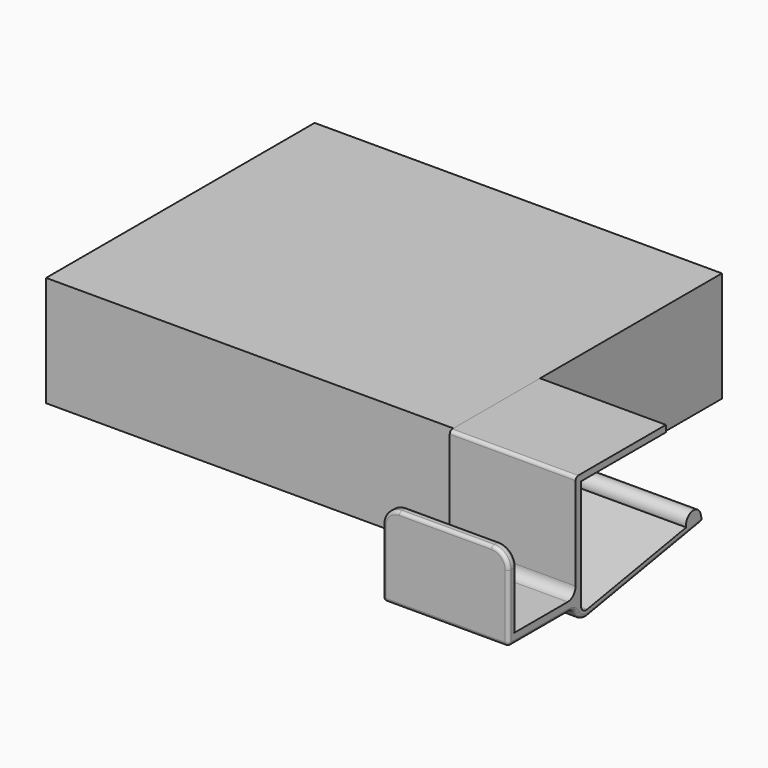
from build123d import *

# Parameters (mm, degrees)
F0_W     = 101.6
F0_H     = 33.4
F1_DEPTH = 123.28711
F3_DEPTH = 38.1
F4_R     = 1
F5_R     = 3
F6_R     = 5.08
F7_R     = 1


with BuildPart() as f1:
    # F0 (on Right) → F1 (new body)
    with BuildSketch(Plane.YZ):
        with Locations((-2.3622444451, -8.5308100462)):
            Rectangle(F0_W, F0_H)
    extrude(amount=F1_DEPTH)


with BuildPart() as f3:
    # F2 (on face) → F3 (new body)
    with BuildSketch(Plane.YZ.offset(123.28711)):
        with BuildLine():
            Line((-20.3735399991, 6.1691899538), (-20.3735399991, 8.1691899538))
            Line((-20.3735399991, 8.1691899538), (-53.5426569879, 8.1691899538))
            ThreePointArc((-53.5426569879, 8.1691899538), (-54.2497637691, 7.876296735), (-54.5426569879, 7.1691899538))
            Line((-54.5426569879, 7.1691899538), (-54.5426569879, -23.9238089242))
            Line((-54.5426569879, -23.9238089242), (-76.9426569879, -23.9238089242))
            Line((-76.9426569879, -23.9238089242), (-76.9426569879, -1.5238089242))
            Line((-76.9426569879, -1.5238089242), (-79.9426569879, -1.5238089242))
            Line((-79.9426569879, -1.5238089242), (-79.9426569879, -23.9238089242))
            Line((-79.9426569879, -23.9238089242), (-79.9426569879, -26.9238089242))
            Line((-79.9426569879, -26.9238089242), (-54.5426569879, -26.9238089242))
            ThreePointArc((-54.5426569879, -26.9238089242), (-53.1138074267, -29.9879866967), (-49.8480642772, -30.8630399363))
            Line((-49.8480642772, -30.8630399363), (-6.690798263, -23.2532495244))
            Line((-6.690798263, -23.2532495244), (-7.1944188543, -21.0330628785))
            ThreePointArc((-7.1944188543, -21.0330628785), (-10.5722276228, -18.9043396003), (-12.700950901, -22.2821483688))
            Line((-12.700950901, -22.2821483688), (-50.1953606326, -28.8934244303))
            ThreePointArc((-50.1953606326, -28.8934244303), (-51.8282322073, -28.4558978105), (-52.5426569879, -26.9238089242))
            Line((-52.5426569879, -26.9238089242), (-52.5426569879, 6.1691899538))
            Line((-52.5426569879, 6.1691899538), (-20.3735399991, 6.1691899538))
        make_face()
    extrude(amount=F3_DEPTH)

    # F4
    f4_edges = [f3.edges().sort_by_distance(p)[0] for p in [
        (142.33711, -79.942657, -26.923809),
    ]]
    fillet(f4_edges, radius=F4_R)

    # F5
    f5_edges = [f3.edges().sort_by_distance(p)[0] for p in [
        (142.33711, -54.542657, -23.923809),
        (142.33711, -54.542657, -26.923809),
    ]]
    fillet(f5_edges, radius=F5_R)

    # F6
    f6_edges = [f3.edges().sort_by_distance(p)[0] for p in [
        (123.28711, -78.442657, -1.523809),
        (161.38711, -78.442657, -1.523809),
    ]]
    fillet(f6_edges, radius=F6_R)

    # F7
    f7_edges = [f3.edges().sort_by_distance(p)[0] for p in [
        (159.899212, -76.942657, -3.011706),
        (161.38711, -78.442657, -6.603809),
        (156.30711, -78.442657, -1.523809),
        (159.899212, -79.942657, -3.011706),
        (142.33711, -76.942657, -1.523809),
        (128.36711, -78.442657, -1.523809),
        (142.33711, -79.942657, -1.523809),
        (124.775008, -76.942657, -3.011706),
        (123.28711, -78.442657, -6.603809),
        (124.775008, -79.942657, -3.011706),
    ]]
    fillet(f7_edges, radius=F7_R)


solid = Compound([f1.part, f3.part])
